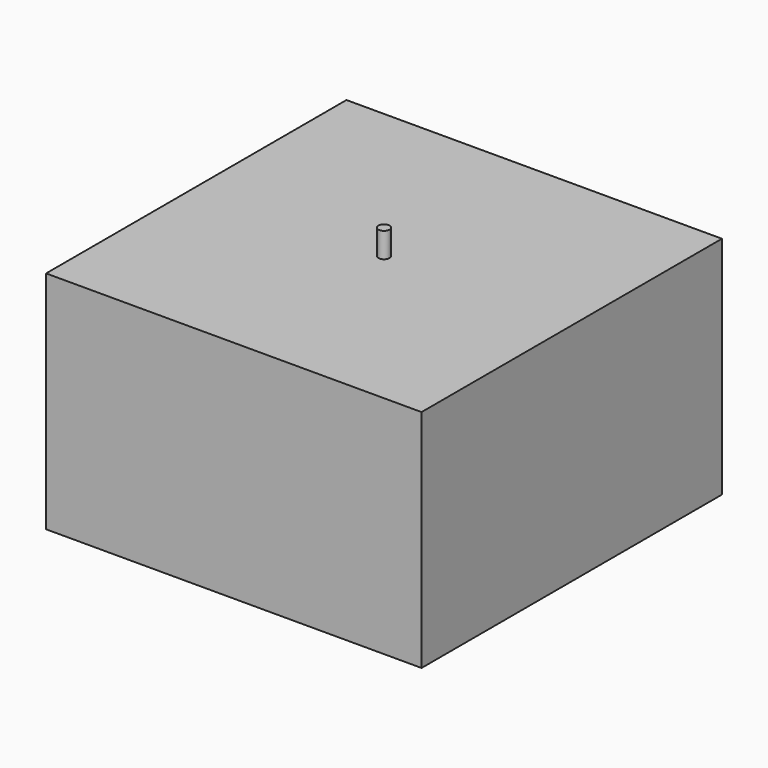
from build123d import *

# Parameters (mm, degrees)
F0_W      = 38.1
F0_H      = 38.1
F1_DEPTH  = 12.7
F2_W      = 25.654
F2_H      = 25.654
F3_DEPTH  = 12.7
F4_W      = 38.1
F4_H      = 38.1
F5_DEPTH  = 5.08
F6_W      = 38.1
F6_H      = 38.1
F7_DEPTH  = 5.08
F8_R      = 1.939554
F9_DEPTH  = 22.606
F10_R     = 0.53889
F11_DEPTH = 25.4
F12_R     = 0.560167
F13_DEPTH = 25.4


with BuildPart() as f1:
    # F0 (on Top) → F1 (new body)
    with BuildSketch(Plane.XY):
        Rectangle(F0_W, F0_H)
    extrude(amount=F1_DEPTH)

    # F2 (on Top) → F3 (cut)
    with BuildSketch(Plane.XY):
        Rectangle(F2_W, F2_H)
    extrude(amount=F3_DEPTH, mode=Mode.SUBTRACT)

    # F4 (on face) → F5 (join)
    with BuildSketch(Plane.XY.offset(12.7)):
        Rectangle(F4_W, F4_H)
    extrude(amount=F5_DEPTH)

    # F6 (on face) → F7 (join)
    with BuildSketch(Plane(origin=(0, 0, 0), x_dir=(1, 0, 0), z_dir=(0, 0, -1))):
        Rectangle(F6_W, F6_H)
    extrude(amount=F7_DEPTH)

    # F8 (on face) → F9 (join)
    with BuildSketch(Plane(origin=(0, 0, -5.08), x_dir=(1, 0, 0), z_dir=(0, 0, -1))):
        Circle(F8_R)
    extrude(amount=-F9_DEPTH)

    # F10 (on face) → F11 (cut)
    with BuildSketch(Plane(origin=(0, 0, -5.08), x_dir=(1, 0, 0), z_dir=(0, 0, -1))):
        Circle(F10_R)
    extrude(amount=-F11_DEPTH, mode=Mode.SUBTRACT)

    # F12 (on face) → F13 (join)
    with BuildSketch(Plane(origin=(0, 0, -5.08), x_dir=(1, 0, 0), z_dir=(0, 0, -1))):
        Circle(F12_R)
    extrude(amount=-F13_DEPTH)


solid = f1.part
